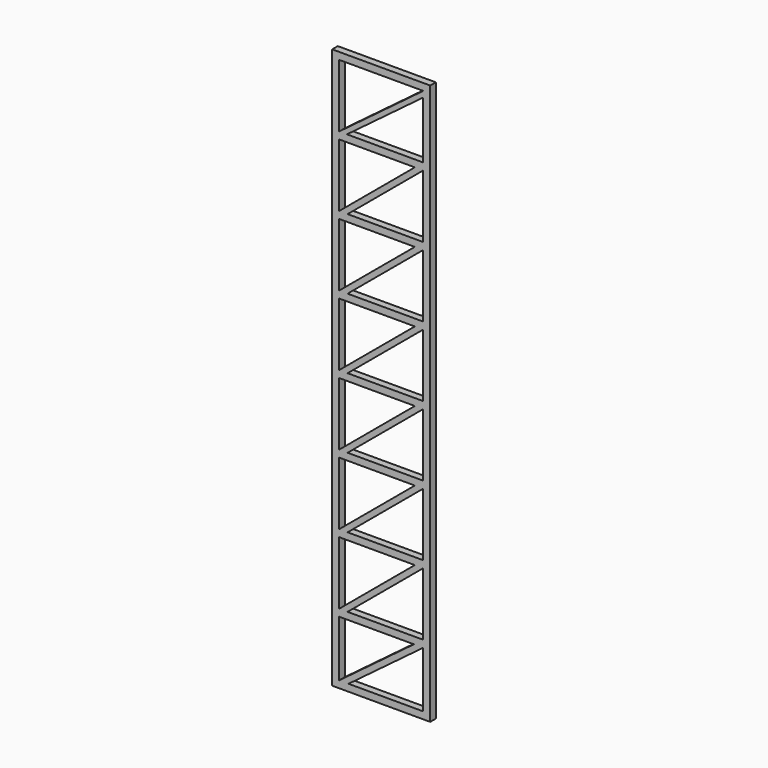
from build123d import *

# Parameters (mm, degrees)
F0_W     = 1066.8
F0_H     = 6096
F1_DEPTH = 76.2


with BuildPart() as f1:
    # F0 (on Front) → F1 (new body)
    with BuildSketch(Plane.XZ):
        with Locations((533.4, 3048)):
            Rectangle(F0_W, F0_H)
        Polygon((889, 685.8), (76.2, 76.2), (76.2, 685.8), align=None, mode=Mode.SUBTRACT)
        Polygon((899.16, 1447.8), (76.2, 762), (76.2, 1447.8), align=None, mode=Mode.SUBTRACT)
        Polygon((899.16, 2209.8), (76.2, 1524), (76.2, 2209.8), align=None, mode=Mode.SUBTRACT)
        Polygon((899.16, 2971.8), (76.2, 2286), (76.2, 2971.8), align=None, mode=Mode.SUBTRACT)
        Polygon((990.6, 76.2), (177.8, 76.2), (990.6, 685.8), align=None, mode=Mode.SUBTRACT)
        Polygon((990.6, 1447.8), (990.6, 762), (167.64, 762), align=None, mode=Mode.SUBTRACT)
        Polygon((990.6, 2209.8), (990.6, 1524), (167.64, 1524), align=None, mode=Mode.SUBTRACT)
        Polygon((990.6, 2971.8), (990.6, 2286), (167.64, 2286), align=None, mode=Mode.SUBTRACT)
        Polygon((899.16, 3733.8), (76.2, 3048), (76.2, 3733.8), align=None, mode=Mode.SUBTRACT)
        Polygon((899.16, 4495.8), (76.2, 3810), (76.2, 4495.8), align=None, mode=Mode.SUBTRACT)
        Polygon((899.16, 5257.8), (76.2, 4572), (76.2, 5257.8), align=None, mode=Mode.SUBTRACT)
        Polygon((990.6, 3733.8), (990.6, 3048), (167.64, 3048), align=None, mode=Mode.SUBTRACT)
        Polygon((990.6, 4495.8), (990.6, 3810), (167.64, 3810), align=None, mode=Mode.SUBTRACT)
        Polygon((990.6, 5257.8), (990.6, 4572), (167.64, 4572), align=None, mode=Mode.SUBTRACT)
        Polygon((76.2, 5334), (76.2, 6019.8), (990.6, 6019.8), align=None, mode=Mode.SUBTRACT)
        Polygon((990.6, 5956.3), (990.6, 5334), (160.866667, 5334), align=None, mode=Mode.SUBTRACT)
    extrude(amount=F1_DEPTH)


solid = f1.part
